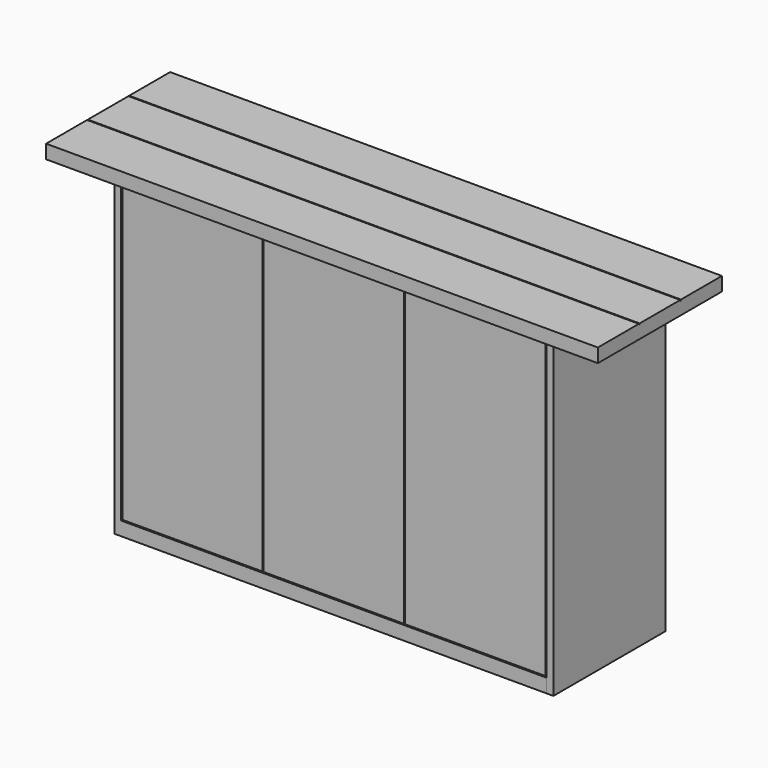
from build123d import *

# Parameters (mm, degrees)
F0_W      = 88.9
F0_H      = 209.55
F1_DEPTH  = 38.1
F2_W      = 387.35
F2_H      = 838.2
F2_H_2    = 38.1
F3_DEPTH  = 19.05
F4_W      = 387.35
F4_H      = 876.3
F5_DEPTH  = 19.05
F6_W      = 1524
F6_H      = 428.244
F7_DEPTH  = 38.1
F8_W      = 387.35
F8_H      = 828.675
F9_DEPTH  = 19.05
F10_W     = 1524
F10_H     = 2.54
F11_DEPTH = 2.54
F12_W     = 38.1
F12_H     = 88.9
F13_DEPTH = 1174.75


with BuildPart() as f1:
    # F0 (on Top) → F1 (new body)
    with BuildSketch(Plane.XY):
        with Locations((542.925, 0)):
            Rectangle(F0_W, F0_H)
        Polygon((587.375, 193.675), (-587.375, 193.675), (-587.375, 104.775), (-498.475, 104.775), (-225.425, 104.775), (-136.525, 104.775), (136.525, 104.775), (225.425, 104.775), (498.475, 104.775), (587.375, 104.775), align=None)
        with Locations((-542.925, 0)):
            Rectangle(F0_W, F0_H)
        Polygon((-498.475, -104.775), (-587.375, -104.775), (-587.375, -193.675), (587.375, -193.675), (587.375, -104.775), (498.475, -104.775), (225.425, -104.775), (136.525, -104.775), (-136.525, -104.775), (-225.425, -104.775), align=None)
        with Locations((180.975, 0)):
            Rectangle(F0_W, F0_H)
        with Locations((-180.975, 0)):
            Rectangle(F0_W, F0_H)
    extrude(amount=F1_DEPTH)

    # F2 (on face) → F3 (join)
    with BuildSketch(Plane(origin=(-587.375, 0, 0), x_dir=(0, -1, 0), z_dir=(-1, 0, 0))):
        with Locations((0, 457.2)):
            Rectangle(F2_W, F2_H)
        with Locations((0, 19.05)):
            Rectangle(F2_W, F2_H_2)
    extrude(amount=F3_DEPTH)


with BuildPart() as f5:
    # F4 (on face) → F5 (new body)
    with BuildSketch(Plane.YZ.offset(587.375)):
        with Locations((0, 438.15)):
            Rectangle(F4_W, F4_H)
        with Locations((0, 438.15)):
            Rectangle(F4_W, F4_H)
    extrude(amount=F5_DEPTH)


with BuildPart() as f7:
    # F6 (on face) → F7 (new body)
    with BuildSketch(Plane.XY.offset(876.3)):
        with Locations((0, -20.447)):
            Rectangle(F6_W, F6_H)
    extrude(amount=F7_DEPTH)

    # F10 (on face) → F11 (cut)
    with BuildSketch(Plane.XY.offset(914.4)):
        with Locations((0, 50.927)):
            Rectangle(F10_W, F10_H)
        with Locations((0, -91.821)):
            Rectangle(F10_W, F10_H)
    extrude(amount=-F11_DEPTH, mode=Mode.SUBTRACT)


with BuildPart() as f9:
    # F8 (on face) → F9 (new body)
    with BuildSketch(Plane.XZ.offset(193.675)):
        with Locations((-390.525, 455.6125)):
            Rectangle(F8_W, F8_H)
    extrude(amount=-F9_DEPTH)


with BuildPart() as f9b:
    # F8 (on face) → F9, piece 2 (new body)
    with BuildSketch(Plane.XZ.offset(193.675)):
        with Locations((390.525, 455.6125)):
            Rectangle(F8_W, F8_H)
    extrude(amount=-F9_DEPTH)


with BuildPart() as f9c:
    # F8 (on face) → F9, piece 3 (new body)
    with BuildSketch(Plane.XZ.offset(193.675)):
        with Locations((0, 455.6125)):
            Rectangle(F8_W, F8_H)
    extrude(amount=-F9_DEPTH)


with BuildPart() as f13:
    # F12 (on face) → F13 (new body, through all)
    with BuildSketch(Plane(origin=(587.375, 0, 0), x_dir=(0, -1, 0), z_dir=(-1, 0, 0))):
        with Locations((-174.625, 234.95)):
            Rectangle(F12_W, F12_H)
    extrude(amount=F13_DEPTH)


with BuildPart() as f13b:
    # F12 (on face) → F13, piece 2 (new body, through all)
    with BuildSketch(Plane(origin=(587.375, 0, 0), x_dir=(0, -1, 0), z_dir=(-1, 0, 0))):
        with Locations((-174.625, 679.45)):
            Rectangle(F12_W, F12_H)
    extrude(amount=F13_DEPTH)


solid = Compound([f1.part, f5.part, f7.part, f9.part, f9b.part, f9c.part, f13.part, f13b.part])
